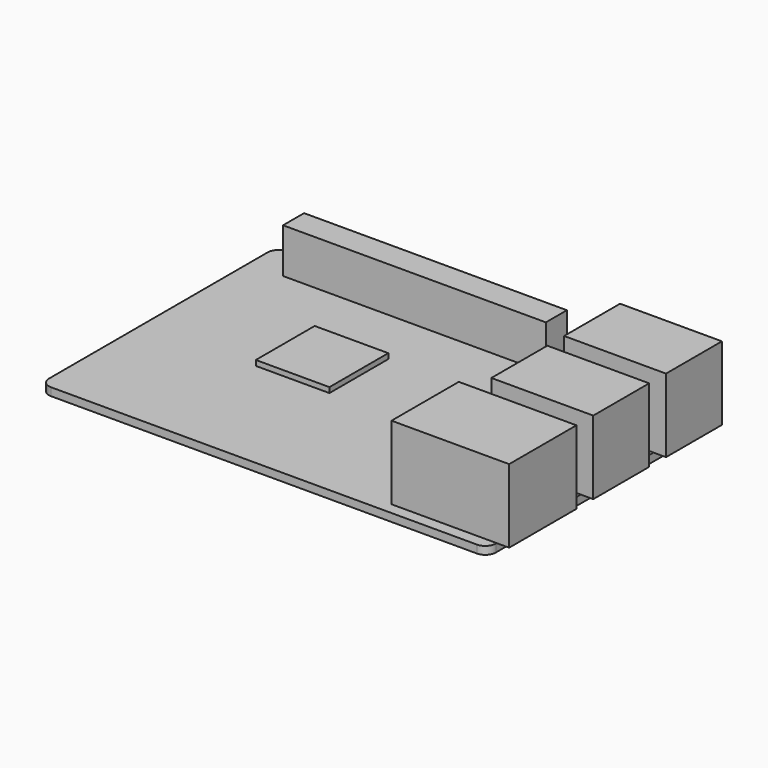
from build123d import *

# Parameters (mm, degrees)
F0_W      = 85
F0_H      = 56
F1_DEPTH  = 1.5
F2_R      = 2
F3_W      = 50
F3_H      = 5
F4_DEPTH  = 8.5
F5_W      = 17
F5_H      = 13.3
F5_W_2    = 20
F5_H_2    = 16
F6_DEPTH  = 14
F7_W      = 16
F7_H      = 14
F7_W_2    = 13.3
F8_DEPTH  = 2.38
F9_W      = 14
F9_H      = 14
F10_DEPTH = 1


with BuildPart() as f1:
    # F0 (on Top) → F1 (new body)
    with BuildSketch(Plane.XY):
        Rectangle(F0_W, F0_H)
    extrude(amount=F1_DEPTH)

    # F2
    f2_edges = [f1.edges().sort_by_distance(p)[0] for p in [
        (-42.5, -28, 0.75),
        (-42.5, 28, 0.75),
        (42.5, -28, 0.75),
        (42.5, 28, 0.75),
    ]]
    fillet(f2_edges, radius=F2_R)

    # F3 (on face) → F4 (join)
    with BuildSketch(Plane.XY.offset(1.5)):
        with Locations((-10.955842, 23.976474)):
            Rectangle(F3_W, F3_H)
    extrude(amount=F4_DEPTH)

    # F5 (on face) → F6 (join)
    with BuildSketch(Plane.XY.offset(1.5)):
        with Locations((34, 18.15)):
            Rectangle(F5_W, F5_H)
        with Locations((34, 0.85)):
            Rectangle(F5_W, F5_H)
        with Locations((32.5, -17.8)):
            Rectangle(F5_W_2, F5_H_2)
    extrude(amount=F6_DEPTH)

    # F7 (on face) → F8 (join)
    with BuildSketch(Plane.YZ.offset(42.5)):
        with Locations((-17.8, 8.5)):
            Rectangle(F7_W, F7_H)
        with Locations((0.85, 8.5)):
            Rectangle(F7_W_2, F7_H)
        with Locations((18.15, 8.5)):
            Rectangle(F7_W_2, F7_H)
    extrude(amount=F8_DEPTH)

    # F9 (on face) → F10 (join)
    with BuildSketch(Plane.XY.offset(1.5)):
        with Locations((-14.045779, 3.365002)):
            Rectangle(F9_W, F9_H)
    extrude(amount=F10_DEPTH)


solid = f1.part
